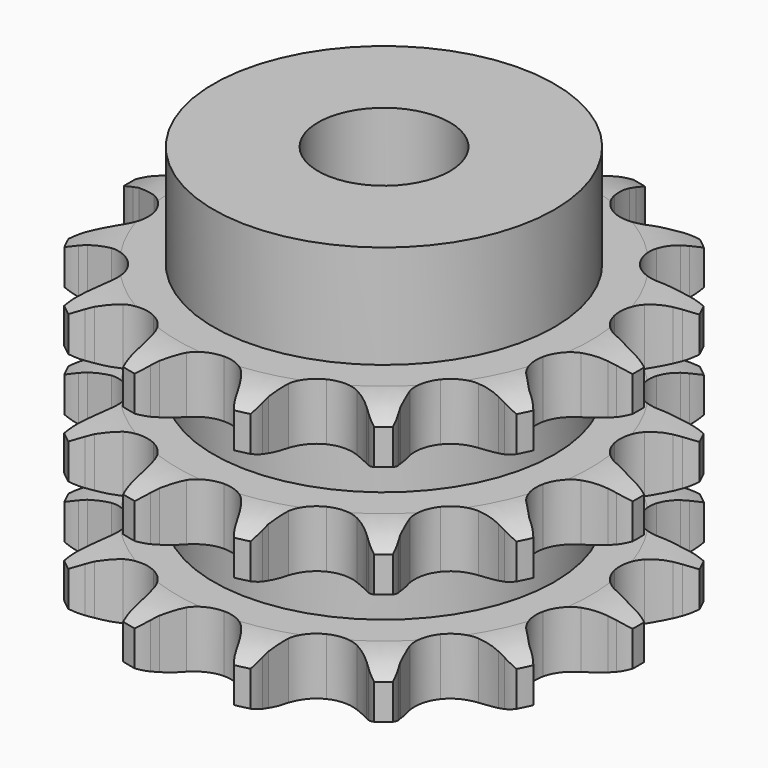
from build123d import *

# Parameters (mm, degrees)
PAD_DEPTH         = 25.6
SKETCH001_R       = 15.5
PAD001_DEPTH      = 35
SKETCH002_R       = 6
POCKET_DEPTH      = 0.001
POCKET_DEPTH_BACK = 35.001


with BuildPart() as part:
    # Sprocket → Pad (new body)
    with BuildSketch(Plane.XY):
        with BuildLine():
            ThreePointArc((-5.383548, 23.586867), (-4.518416, 22.72538), (-3.873288, 21.688836))
            Line((-3.873288, 21.688836), (-3.580974, 21.070043))
            ThreePointArc((-3.580974, 21.070043), (-3.092456, 20.180906), (-2.499221, 19.357933))
            ThreePointArc((-2.499221, 19.357933), (-1.382839, 18.484598), (0, 18.173506))
            ThreePointArc((0, 18.173506), (1.382839, 18.484598), (2.499221, 19.357933))
            ThreePointArc((2.499221, 19.357933), (3.092456, 20.180906), (3.580974, 21.070043))
            Line((3.580974, 21.070043), (3.873288, 21.688836))
            ThreePointArc((3.873288, 21.688836), (4.518416, 22.72538), (5.383548, 23.586867))
            ThreePointArc((5.383548, 23.586867), (5.789221, 22.435327), (5.920722, 21.221523))
            Line((5.920722, 21.221523), (5.915603, 20.537179))
            ThreePointArc((5.915603, 20.537179), (5.969961, 19.524135), (6.147372, 18.525266))
            ThreePointArc((6.147372, 18.525266), (6.774272, 17.254039), (7.885189, 16.373763))
            ThreePointArc((7.885189, 16.373763), (9.266061, 16.054057), (10.650812, 16.356524))
            Line((10.650812, 16.356524), (12.368295, 17.429726))
            ThreePointArc((12.368295, 17.429726), (12.629784, 17.650546), (12.900145, 17.86041))
            ThreePointArc((12.900145, 17.86041), (13.931125, 18.514393), (15.084367, 18.915199))
            ThreePointArc((15.084367, 18.915199), (14.950231, 17.701683), (14.54206, 16.551027))
            Line((14.54206, 16.551027), (14.240522, 15.936675))
            ThreePointArc((14.240522, 15.936675), (13.849953, 15.000369), (13.576403, 14.023443))
            ThreePointArc((13.576403, 14.023443), (13.589655, 12.606105), (14.208619, 11.330995))
            ThreePointArc((14.208619, 11.330995), (15.314027, 10.443812), (16.69288, 10.115504))
            Line((16.69288, 10.115504), (18.705923, 10.337238))
            ThreePointArc((18.705923, 10.337238), (19.037327, 10.422734), (19.371971, 10.49451))
            ThreePointArc((19.371971, 10.49451), (20.584604, 10.636403), (21.797543, 10.497143))
            ThreePointArc((21.797543, 10.497143), (21.150165, 9.462003), (20.283164, 8.602397))
            Line((20.283164, 8.602397), (19.744931, 8.179717))
            ThreePointArc((19.744931, 8.179717), (18.986793, 7.505596), (18.31646, 6.744105))
            ThreePointArc((18.31646, 6.744105), (17.71344, 5.461378), (17.717858, 4.043985))
            ThreePointArc((17.717858, 4.043985), (18.328862, 2.765042), (19.428718, 1.870985))
            Line((19.428718, 1.870985), (21.338614, 1.197334))
            ThreePointArc((21.338614, 1.197334), (21.674294, 1.130573), (22.00694, 1.050044))
            ThreePointArc((22.00694, 1.050044), (23.16105, 0.651743), (24.193447, 0))
            ThreePointArc((24.193447, 0), (23.16105, -0.651743), (22.00694, -1.050044))
            Line((22.00694, -1.050044), (21.338614, -1.197334))
            ThreePointArc((21.338614, -1.197334), (20.363065, -1.475753), (19.428718, -1.870985))
            ThreePointArc((19.428718, -1.870985), (18.328862, -2.765042), (17.717858, -4.043985))
            ThreePointArc((17.717858, -4.043985), (17.71344, -5.461378), (18.31646, -6.744105))
            Line((18.31646, -6.744105), (19.744931, -8.179717))
            ThreePointArc((19.744931, -8.179717), (20.018401, -8.385513), (20.283164, -8.602397))
            ThreePointArc((20.283164, -8.602397), (21.150165, -9.462003), (21.797543, -10.497143))
            ThreePointArc((21.797543, -10.497143), (20.584604, -10.636403), (19.371971, -10.49451))
            Line((19.371971, -10.49451), (18.705923, -10.337238))
            ThreePointArc((18.705923, -10.337238), (17.706183, -10.16481), (16.69288, -10.115504))
            ThreePointArc((16.69288, -10.115504), (15.314027, -10.443812), (14.208619, -11.330995))
            ThreePointArc((14.208619, -11.330995), (13.589655, -12.606105), (13.576403, -14.023443))
            Line((13.576403, -14.023443), (14.240522, -15.936675))
            ThreePointArc((14.240522, -15.936675), (14.397619, -16.240745), (14.54206, -16.551027))
            ThreePointArc((14.54206, -16.551027), (14.950231, -17.701683), (15.084367, -18.915199))
            ThreePointArc((15.084367, -18.915199), (13.931125, -18.514393), (12.900145, -17.86041))
            Line((12.900145, -17.86041), (12.368295, -17.429726))
            ThreePointArc((12.368295, -17.429726), (11.542374, -16.840602), (10.650812, -16.356524))
            ThreePointArc((10.650812, -16.356524), (9.266061, -16.054057), (7.885189, -16.373763))
            ThreePointArc((7.885189, -16.373763), (6.774272, -17.254039), (6.147372, -18.525266))
            Line((6.147372, -18.525266), (5.915603, -20.537179))
            ThreePointArc((5.915603, -20.537179), (5.925211, -20.879298), (5.920722, -21.221523))
            ThreePointArc((5.920722, -21.221523), (5.789221, -22.435327), (5.383548, -23.586867))
            ThreePointArc((5.383548, -23.586867), (4.518416, -22.72538), (3.873288, -21.688836))
            Line((3.873288, -21.688836), (3.580974, -21.070043))
            ThreePointArc((3.580974, -21.070043), (3.092456, -20.180906), (2.499221, -19.357933))
            ThreePointArc((2.499221, -19.357933), (1.382839, -18.484598), (0, -18.173506))
            ThreePointArc((0, -18.173506), (-1.382839, -18.484598), (-2.499221, -19.357933))
            Line((-2.499221, -19.357933), (-3.580974, -21.070043))
            ThreePointArc((-3.580974, -21.070043), (-3.720757, -21.38245), (-3.873288, -21.688836))
            ThreePointArc((-3.873288, -21.688836), (-4.518416, -22.72538), (-5.383548, -23.586867))
            ThreePointArc((-5.383548, -23.586867), (-5.789221, -22.435327), (-5.920722, -21.221523))
            Line((-5.920722, -21.221523), (-5.915603, -20.537179))
            ThreePointArc((-5.915603, -20.537179), (-5.969961, -19.524135), (-6.147372, -18.525266))
            ThreePointArc((-6.147372, -18.525266), (-6.774272, -17.254039), (-7.885189, -16.373763))
            ThreePointArc((-7.885189, -16.373763), (-9.266061, -16.054057), (-10.650812, -16.356524))
            Line((-10.650812, -16.356524), (-12.368295, -17.429726))
            ThreePointArc((-12.368295, -17.429726), (-12.629784, -17.650546), (-12.900145, -17.86041))
            ThreePointArc((-12.900145, -17.86041), (-13.931125, -18.514393), (-15.084367, -18.915199))
            ThreePointArc((-15.084367, -18.915199), (-14.950231, -17.701683), (-14.54206, -16.551027))
            Line((-14.54206, -16.551027), (-14.240522, -15.936675))
            ThreePointArc((-14.240522, -15.936675), (-13.849953, -15.000369), (-13.576403, -14.023443))
            ThreePointArc((-13.576403, -14.023443), (-13.589655, -12.606105), (-14.208619, -11.330995))
            ThreePointArc((-14.208619, -11.330995), (-15.314027, -10.443812), (-16.69288, -10.115504))
            Line((-16.69288, -10.115504), (-18.705923, -10.337238))
            ThreePointArc((-18.705923, -10.337238), (-19.037327, -10.422734), (-19.371971, -10.49451))
            ThreePointArc((-19.371971, -10.49451), (-20.584604, -10.636403), (-21.797543, -10.497143))
            ThreePointArc((-21.797543, -10.497143), (-21.150165, -9.462003), (-20.283164, -8.602397))
            Line((-20.283164, -8.602397), (-19.744931, -8.179717))
            ThreePointArc((-19.744931, -8.179717), (-18.986793, -7.505596), (-18.31646, -6.744105))
            ThreePointArc((-18.31646, -6.744105), (-17.71344, -5.461378), (-17.717858, -4.043985))
            ThreePointArc((-17.717858, -4.043985), (-18.328862, -2.765042), (-19.428718, -1.870985))
            Line((-19.428718, -1.870985), (-21.338614, -1.197334))
            ThreePointArc((-21.338614, -1.197334), (-21.674294, -1.130573), (-22.00694, -1.050044))
            ThreePointArc((-22.00694, -1.050044), (-23.16105, -0.651743), (-24.193447, 0))
            ThreePointArc((-24.193447, 0), (-23.16105, 0.651743), (-22.00694, 1.050044))
            Line((-22.00694, 1.050044), (-21.338614, 1.197334))
            ThreePointArc((-21.338614, 1.197334), (-20.363065, 1.475753), (-19.428718, 1.870985))
            ThreePointArc((-19.428718, 1.870985), (-18.328862, 2.765042), (-17.717858, 4.043985))
            ThreePointArc((-17.717858, 4.043985), (-17.71344, 5.461378), (-18.31646, 6.744105))
            Line((-18.31646, 6.744105), (-19.744931, 8.179717))
            ThreePointArc((-19.744931, 8.179717), (-20.018401, 8.385513), (-20.283164, 8.602397))
            ThreePointArc((-20.283164, 8.602397), (-21.150165, 9.462003), (-21.797543, 10.497143))
            ThreePointArc((-21.797543, 10.497143), (-20.584604, 10.636403), (-19.371971, 10.49451))
            Line((-19.371971, 10.49451), (-18.705923, 10.337238))
            ThreePointArc((-18.705923, 10.337238), (-17.706183, 10.16481), (-16.69288, 10.115504))
            ThreePointArc((-16.69288, 10.115504), (-15.314027, 10.443812), (-14.208619, 11.330995))
            ThreePointArc((-14.208619, 11.330995), (-13.589655, 12.606105), (-13.576403, 14.023443))
            Line((-13.576403, 14.023443), (-14.240522, 15.936675))
            ThreePointArc((-14.240522, 15.936675), (-14.397619, 16.240745), (-14.54206, 16.551027))
            ThreePointArc((-14.54206, 16.551027), (-14.950231, 17.701683), (-15.084367, 18.915199))
            ThreePointArc((-15.084367, 18.915199), (-13.931125, 18.514393), (-12.900145, 17.86041))
            Line((-12.900145, 17.86041), (-12.368295, 17.429726))
            ThreePointArc((-12.368295, 17.429726), (-11.542374, 16.840602), (-10.650812, 16.356524))
            ThreePointArc((-10.650812, 16.356524), (-9.266061, 16.054057), (-7.885189, 16.373763))
            ThreePointArc((-7.885189, 16.373763), (-6.774272, 17.254039), (-6.147372, 18.525266))
            Line((-6.147372, 18.525266), (-5.915603, 20.537179))
            ThreePointArc((-5.915603, 20.537179), (-5.925211, 20.879298), (-5.920722, 21.221523))
            ThreePointArc((-5.920722, 21.221523), (-5.789221, 22.435327), (-5.383548, 23.586867))
        make_face()
    extrude(amount=PAD_DEPTH)

    # Sketch → Groove (revolve, cut)
    with BuildSketch(Plane.XZ):
        with BuildLine():
            ThreePointArc((18.791101, 0), (21.027169, 0.253206), (23.15, 1))
            Line((23.15, 1), (23.15, 4.2))
            ThreePointArc((23.15, 4.2), (21.027169, 4.946794), (18.791101, 5.2))
            Line((15.5, 5.2), (18.791101, 5.2))
            Line((15.5, 5.2), (15.5, 10.2))
            Line((15.5, 10.2), (18.791101, 10.2))
            ThreePointArc((18.791101, 10.2), (21.027169, 10.453206), (23.15, 11.2))
            Line((23.15, 14.4), (23.15, 11.2))
            ThreePointArc((23.15, 14.4), (21.027169, 15.146794), (18.791101, 15.4))
            Line((15.5, 15.4), (18.791101, 15.4))
            Line((15.5, 20.4), (15.5, 15.4))
            Line((18.791101, 20.4), (15.5, 20.4))
            ThreePointArc((18.791101, 20.4), (21.027169, 20.653206), (23.15, 21.4))
            Line((23.15, 21.4), (23.15, 24.6))
            ThreePointArc((23.15, 24.6), (21.027169, 25.346794), (18.791101, 25.6))
            Line((18.791101, 25.6), (33.15, 25.6))
            Line((33.15, 25.6), (33.15, 0))
            Line((18.791101, 0), (33.15, 0))
        make_face()
    revolve(axis=Axis((0, 0, 0), (0, 0, 1)), mode=Mode.SUBTRACT)

    # Sketch001 → Pad001 (join)
    with BuildSketch(Plane.XY):
        Circle(SKETCH001_R)
    extrude(amount=PAD001_DEPTH)

    # Sketch002 → Pocket (cut, two sides)
    with BuildSketch(Plane.XY) as pocket_sk:
        Circle(SKETCH002_R)
    extrude(amount=-POCKET_DEPTH, mode=Mode.SUBTRACT)
    extrude(pocket_sk.sketch, amount=POCKET_DEPTH_BACK, mode=Mode.SUBTRACT)


solid = part.part
